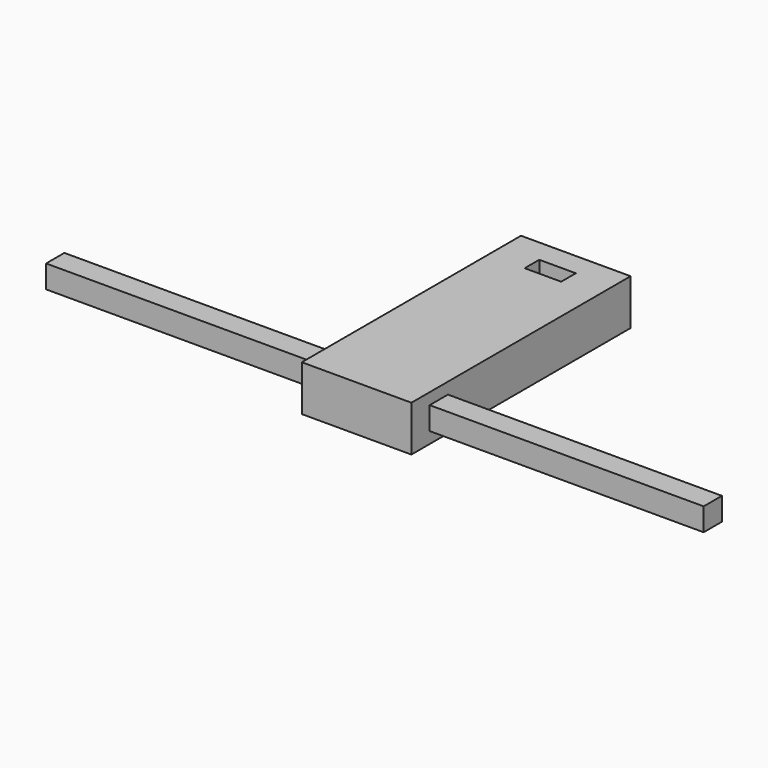
from build123d import *

# Parameters (mm, degrees)
F0_W     = 24
F0_H     = 60
F1_DEPTH = 10
F2_W     = 8
F2_H     = 4
F3_DEPTH = 25
F4_W     = 5
F4_H     = 5
F5_DEPTH = 60
F6_W     = 5
F6_H     = 5
F7_DEPTH = 60


with BuildPart() as f1:
    # F0 (on Top) → F1 (new body)
    with BuildSketch(Plane.XY):
        Rectangle(F0_W, F0_H)
    extrude(amount=F1_DEPTH)

    # F2 (on face) → F3 (cut)
    with BuildSketch(Plane.XY.offset(10)):
        with Locations((0, 23)):
            Rectangle(F2_W, F2_H)
    extrude(amount=-F3_DEPTH, mode=Mode.SUBTRACT)

    # F4 (on face) → F5 (join)
    with BuildSketch(Plane.YZ.offset(12)):
        with Locations((-22.5, 5)):
            Rectangle(F4_W, F4_H)
    extrude(amount=F5_DEPTH)

    # F6 (on face) → F7 (join)
    with BuildSketch(Plane(origin=(-12, 0, 0), x_dir=(0, -1, 0), z_dir=(-1, 0, 0))):
        with Locations((22.5, 5)):
            Rectangle(F6_W, F6_H)
    extrude(amount=F7_DEPTH)


solid = f1.part
